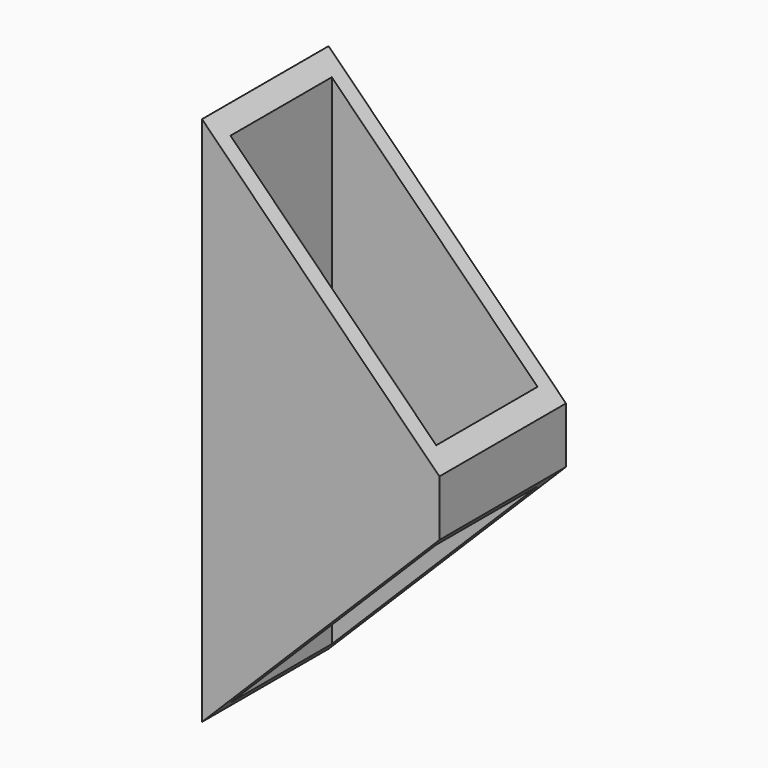
from build123d import *

# Parameters (mm, degrees)
F0_W     = 60
F0_H     = 40
F0_W_2   = 52
F0_H_2   = 32
F1_DEPTH = 170
F3_DEPTH = 40


with BuildPart() as f1:
    # F0 (on Top) → F1 (new body)
    with BuildSketch(Plane.XY):
        Rectangle(F0_W, F0_H)
        Rectangle(F0_W_2, F0_H_2, mode=Mode.SUBTRACT)
    extrude(amount=F1_DEPTH)

    # F2 (on face) → F3 (cut)
    with BuildSketch(Plane.XZ.offset(20)):
        Polygon((-30, 134.142136), (30, 74.142136), (30, 170), (-30, 170), align=None)
        Polygon((30, 60), (-30, 0), (30, 0), align=None)
    extrude(amount=-F3_DEPTH, mode=Mode.SUBTRACT)


solid = f1.part
